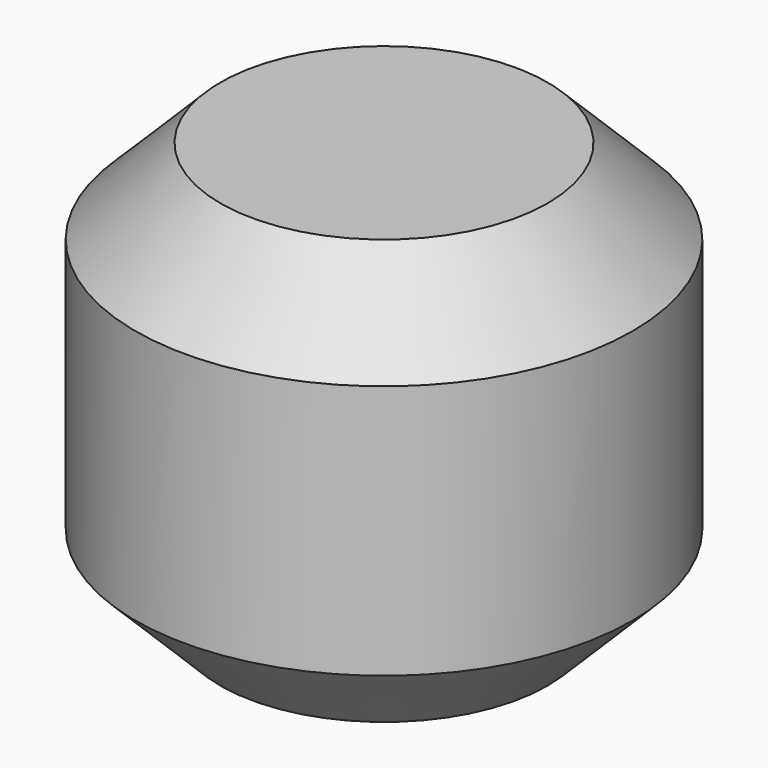
from build123d import *

# Parameters (mm, degrees)
F0_R     = 14.632737
F1_DEPTH = 12.5
F2_SIZE  = 5


with BuildPart() as f1:
    # F0 (on Top) → F1 (new body, symmetric)
    with BuildSketch(Plane.XY):
        Circle(F0_R)
    extrude(amount=F1_DEPTH, both=True)

    # F2
    f2_edges = [f1.edges().sort_by_distance(p)[0] for p in [
        (-14.632737, 0, -12.5),
        (14.632737, 0, 0),
        (-14.632737, 0, 12.5),
    ]]
    chamfer(f2_edges, length=F2_SIZE)


solid = f1.part
